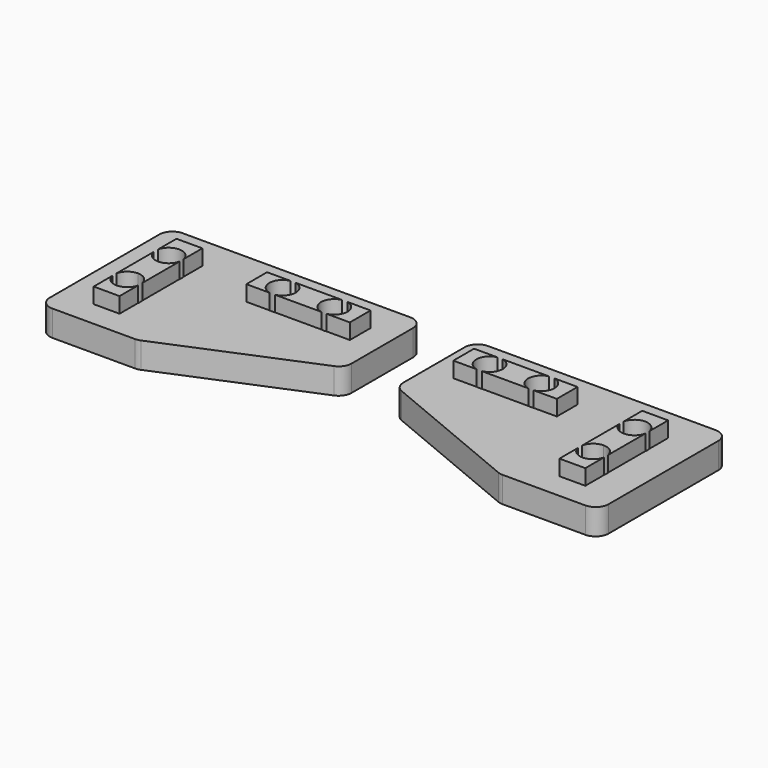
from build123d import *

# Parameters (mm, degrees)
F1_DEPTH = 5
F2_W     = 5
F2_H     = 20
F2_W_2   = 20
F2_H_2   = 5
F3_DEPTH = 3
F4_R     = 2.55
F5_DEPTH = 10
F6_R     = 2.5


with BuildPart() as f1:
    # F0 (on Top) → F1 (new body)
    with BuildSketch(Plane.XY):
        Polygon((40, -1), (-9, -1), (-9, -32.5), (10, -32.5), (40, -20), align=None)
    extrude(amount=-F1_DEPTH)

    # F2 (on Top) → F3 (join)
    with BuildSketch(Plane.XY):
        with Locations((0, -17.5)):
            Rectangle(F2_W, F2_H)
        with Locations((25, -10)):
            Rectangle(F2_W_2, F2_H_2)
    extrude(amount=F3_DEPTH)

    # F4 (on face) → F5 (cut)
    with BuildSketch(Plane.XY.offset(3)):
        with BuildLine():
            ThreePointArc((0, -15.05), (1.803122, -14.303122), (2.55, -12.5))
            ThreePointArc((2.55, -12.5), (-1.803122, -10.696878), (0, -15.05))
        make_face()
        with BuildLine():
            ThreePointArc((2.55, -22.5), (1.803122, -20.696878), (0, -19.95))
            ThreePointArc((0, -19.95), (-1.803122, -24.303122), (2.55, -22.5))
        make_face()
        with Locations((20, -10)):
            Circle(F4_R)
        with BuildLine():
            ThreePointArc((32.55, -10), (30, -7.45), (27.45, -10))
            ThreePointArc((27.45, -10), (30, -12.55), (32.55, -10))
        make_face()
    extrude(amount=-F5_DEPTH, mode=Mode.SUBTRACT)

    # F6
    f6_edges = [f1.edges().sort_by_distance(p)[0] for p in [
        (-9, -1, -2.5),
        (-9, -32.5, -2.5),
        (10, -32.5, -2.5),
        (40, -20, -2.5),
        (40, -1, -2.5),
    ]]
    fillet(f6_edges, radius=F6_R)


with BuildPart() as f8_1:
    # F8: instance of F1
    add(f1.part.mirror(Plane(origin=(45, -10.916667, -2.5), x_dir=(0, 1, 0), z_dir=(1, 0, 0))))


solid = Compound([f1.part, f8_1.part])
